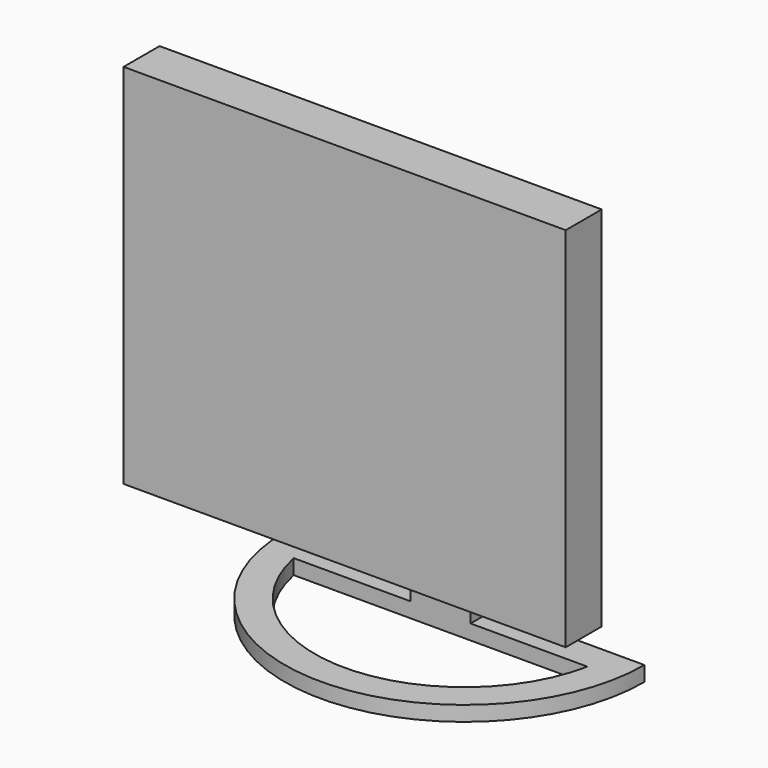
from build123d import *

# Parameters (mm, degrees)
F0_W     = 374.65
F0_H     = 311.15
F1_DEPTH = 38.1
F2_W     = 50.8
F2_H     = 88.9
F2_H_2   = 155.575
F3_DEPTH = 88.9
F4_W     = 63.5
F4_H     = 193.675
F5_DEPTH = 212.726
F7_DEPTH = 12.7


with BuildPart() as f1:
    # F0 (on Front) → F1 (new body)
    with BuildSketch(Plane.XZ):
        Rectangle(F0_W, F0_H)
    extrude(amount=F1_DEPTH)

    # F2 (on face) → F3 (join)
    with BuildSketch(Plane(origin=(0, 0, 0), x_dir=(-1, 0, 0), z_dir=(0, 1, 0))):
        with Locations((0, -200.025)):
            Rectangle(F2_W, F2_H)
        with Locations((0, -77.7875)):
            Rectangle(F2_W, F2_H_2)
    extrude(amount=F3_DEPTH)

    # F4 (on face) → F5 (cut, through all)
    with BuildSketch(Plane(origin=(-25.4, 0, 0), x_dir=(0, -1, 0), z_dir=(-1, 0, 0))):
        with Locations((-31.75, -147.6375)):
            Rectangle(F4_W, F4_H)
    extrude(amount=-F5_DEPTH, mode=Mode.SUBTRACT)

    # F6 (on face) → F7 (join)
    with BuildSketch(Plane(origin=(0, 0, -244.475), x_dir=(1, 0, 0), z_dir=(0, 0, -1))):
        with BuildLine():
            Line((-152.4, -88.9), (152.4, -88.9))
            ThreePointArc((152.4, -88.9), (0, 63.5), (-152.4, -88.9))
        make_face()
        with BuildLine():
            ThreePointArc((-124.434079, -63.5), (0, 38.1), (124.434079, -63.5))
            Line((124.434079, -63.5), (-124.434079, -63.5))
        make_face(mode=Mode.SUBTRACT)
    extrude(amount=-F7_DEPTH)


solid = f1.part
